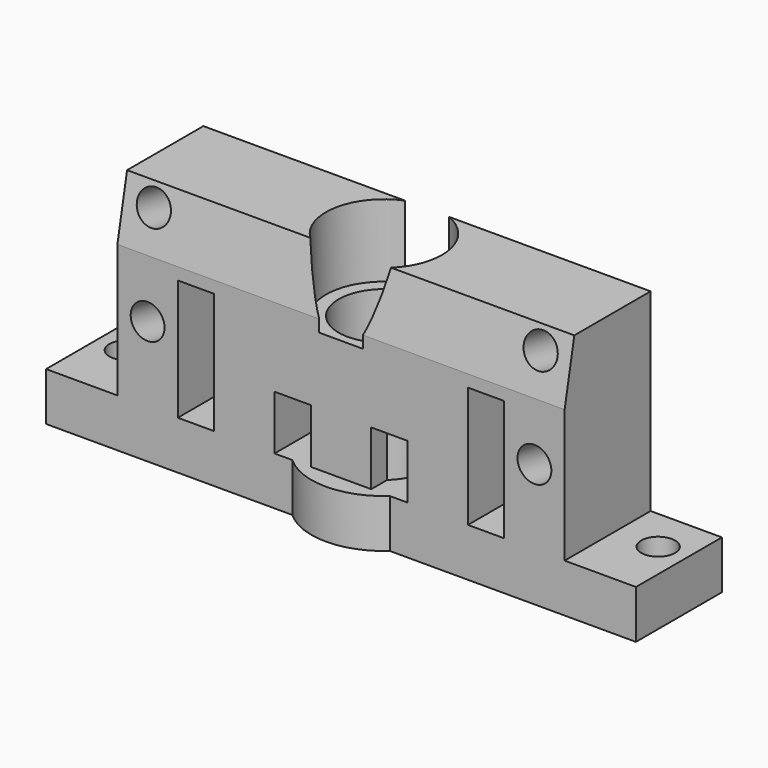
from build123d import *

# Parameters (mm, degrees)
F0_R       = 1.4
F0_R_2     = 3.75
F1_DEPTH   = 20
F2_R       = 3.75
F3_DEPTH   = 6
F4_SIZE2   = 5
F4_SIZE    = 1
F4_2_SIZE2 = 5
F4_2_SIZE  = 1
F5_R       = 1.4
F6_DEPTH   = 25
F7_W       = 3
F7_H       = 10
F7_H_2     = 4.4981769323
F7_W_2     = 5.9
F7_H_3     = 5
F8_DEPTH   = 25
F9_DEPTH   = 4


with BuildPart() as f1:
    # F0 (on Top) → F1 (new body)
    with BuildSketch(Plane.XY):
        Polygon((-4.034158995, 3.5947567205), (-24.4, 3.5947567205), (-24.4, -5.2947567205), (-4.034158995, -5.2947567205), (4.034158995, -5.2947567205), (24.4, -5.2947567205), (24.4, 3.5947567205), (4.034158995, 3.5947567205), align=None)
        with Locations((-22, 0)):
            Circle(F0_R, mode=Mode.SUBTRACT)
        with Locations((0, -0.85)):
            Circle(F0_R_2, mode=Mode.SUBTRACT)
        with Locations((22, 0)):
            Circle(F0_R, mode=Mode.SUBTRACT)
    extrude(amount=F1_DEPTH)

    # F2 (on face) → F3 (cut)
    with BuildSketch(Plane.XY.offset(20)):
        with BuildLine():
            ThreePointArc((1.8122189976, -5.2947567205), (3.9836322112, -3.5278114955), (4.8, -0.85))
            ThreePointArc((4.8, -0.85), (3.9836322112, 1.8278114955), (1.8122189976, 3.5947567205))
            Line((1.8122189976, 3.5947567205), (-1.8122189976, 3.5947567205))
            ThreePointArc((-1.8122189976, 3.5947567205), (-4.8, -0.85), (-1.8122189976, -5.2947567205))
            Line((-1.8122189976, -5.2947567205), (1.8122189976, -5.2947567205))
        make_face()
        with Locations((0, -0.85)):
            Circle(F2_R, mode=Mode.SUBTRACT)
        with BuildLine():
            Line((-1.8122189976, 3.5947567205), (1.8122189976, 3.5947567205))
            ThreePointArc((1.8122189976, 3.5947567205), (0, 3.95), (-1.8122189976, 3.5947567205))
        make_face()
        with BuildLine():
            ThreePointArc((-1.8122189976, -5.2947567205), (0, -5.65), (1.8122189976, -5.2947567205))
            Line((1.8122189976, -5.2947567205), (-1.8122189976, -5.2947567205))
        make_face()
    extrude(amount=-F3_DEPTH, mode=Mode.SUBTRACT)

    # F4
    f4_edges = [f1.edges().sort_by_distance(p)[0] for p in [
        (-13.106109, -5.294757, 20),
    ]]
    f4_side = f1.faces().sort_by_distance((-13.89592, -0.879836, 20))[0]
    chamfer(f4_edges, length=F4_SIZE, length2=F4_SIZE2, reference=f4_side)

    # F4#2
    f4_2_edges = [f1.edges().sort_by_distance(p)[0] for p in [
        (13.106109, -5.294757, 20),
    ]]
    f4_2_side = f1.faces().sort_by_distance((13.89592, -0.879836, 20))[0]
    chamfer(f4_2_edges, length=F4_2_SIZE, length2=F4_2_SIZE2, reference=f4_2_side)

    # F5 (on face) → F6 (cut)
    with BuildSketch(Plane(origin=(0, -7.9757276159, 1.5951455232), x_dir=(1, 0, 0), z_dir=(0, -0.9805806757, 0.1961161351))):
        with Locations((-16, 16.9616127755)):
            Circle(F5_R)
        with Locations((16, 16.9616127755)):
            Circle(F5_R)
        with Locations((-16, 8.9616127755)):
            Circle(F5_R)
        with Locations((16, 8.9616127755)):
            Circle(F5_R)
    extrude(amount=-F6_DEPTH, mode=Mode.SUBTRACT)

    # F7 (on face) → F8 (cut)
    with BuildSketch(Plane.XZ.offset(5.2947567205)):
        with Locations((-20, 9)):
            Rectangle(F7_W, F7_H)
        with Locations((-4, 6.2490884662)):
            Rectangle(F7_W, F7_H_2)
        with Locations((4, 6.2490884662)):
            Rectangle(F7_W, F7_H_2)
        with Locations((12, 9)):
            Rectangle(F7_W, F7_H)
        with Locations((20, 9)):
            Rectangle(F7_W, F7_H)
        Polygon((-21.5, 4), (-21.5, 14), (-18.5, 14), (-18.5, 15), (-24.4, 15), (-24.4, 4), align=None)
        with Locations((-21.45, 17.5)):
            Rectangle(F7_W_2, F7_H_3)
        with Locations((21.45, 17.5)):
            Rectangle(F7_W_2, F7_H_3)
        Polygon((21.5, 4), (24.4, 4), (24.4, 15), (18.5, 15), (18.5, 14), (21.5, 14), align=None)
        with Locations((-12, 9)):
            Rectangle(F7_W, F7_H)
    extrude(amount=-F8_DEPTH, mode=Mode.SUBTRACT)

    # F0 (on Top) → F9 (join)
    with BuildSketch(Plane.XY):
        with BuildLine():
            Line((4.034158995, -5.2947567205), (-4.034158995, -5.2947567205))
            ThreePointArc((-4.034158995, -5.2947567205), (0, -6.8525245607), (4.034158995, -5.2947567205))
        make_face()
        with BuildLine():
            ThreePointArc((4.034158995, 3.5947567205), (0, 5.1525245607), (-4.034158995, 3.5947567205))
            Line((-4.034158995, 3.5947567205), (4.034158995, 3.5947567205))
        make_face()
    extrude(amount=F9_DEPTH)


solid = f1.part
